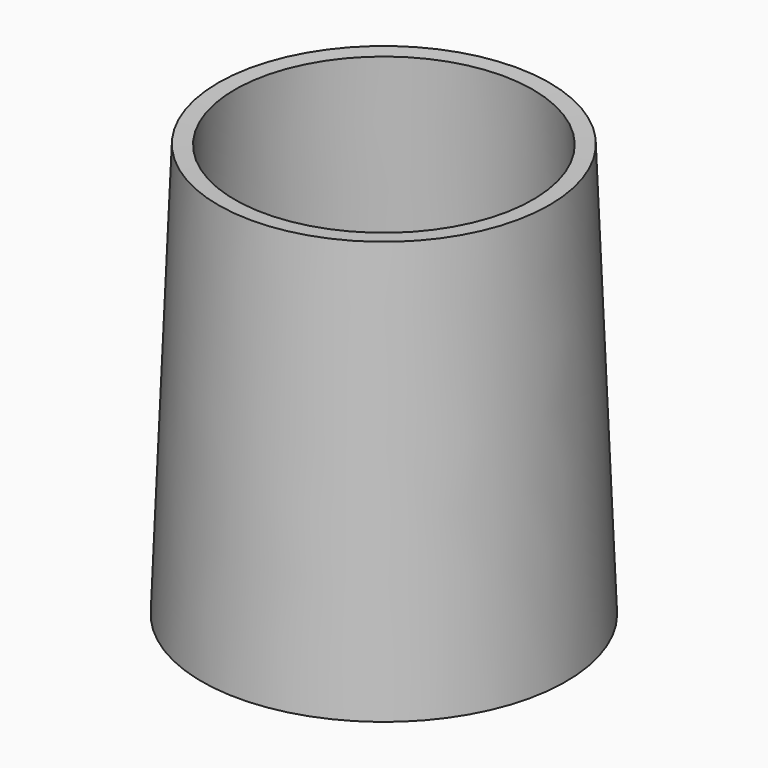
from build123d import *


with BuildPart() as f1:
    # F0 (on Right) → F1 (revolve)
    with BuildSketch(Plane.YZ):
        Polygon((19.998402, 31.198477), (18, 31.118541), (20, -18.881459), (21.998402, -18.801523), align=None)
    revolve(axis=Axis((0, 0, 8.002492), (0, 0, -1)))


solid = f1.part
